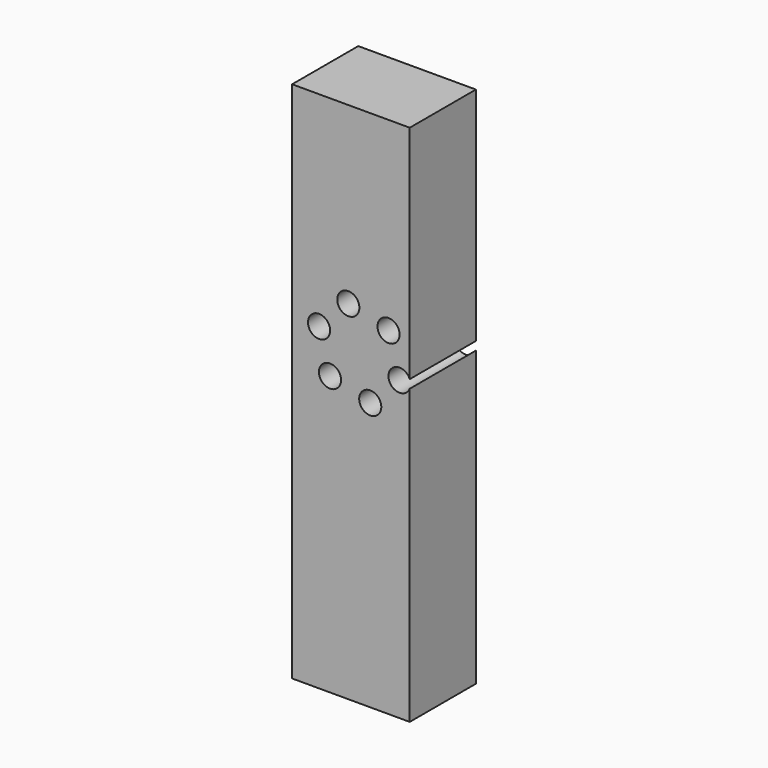
from build123d import *

# Parameters (mm, degrees)
F0_W     = 33.728801
F0_H     = 23.707926
F1_DEPTH = 75
F3_D     = 6.35


with BuildPart() as f1:
    # F0 (on Top) → F1 (new body, symmetric)
    with BuildSketch(Plane.XY):
        with Locations((-16.8644, 11.853963)):
            Rectangle(F0_W, F0_H)
    extrude(amount=F1_DEPTH, both=True)

    # F3 (through all)
    with Locations(Plane(origin=(0, 23.707926, 0), x_dir=(-1, 0, 0), z_dir=(0, 1, 0))):
        with Locations((17.610043, 24.85498), (11.328518, 1.844741), (22.862625, 4.877321), (6.075936, 21.822401), (2.935174, 10.317281), (26.003388, 16.382441)):
            Hole(F3_D / 2)


solid = f1.part
